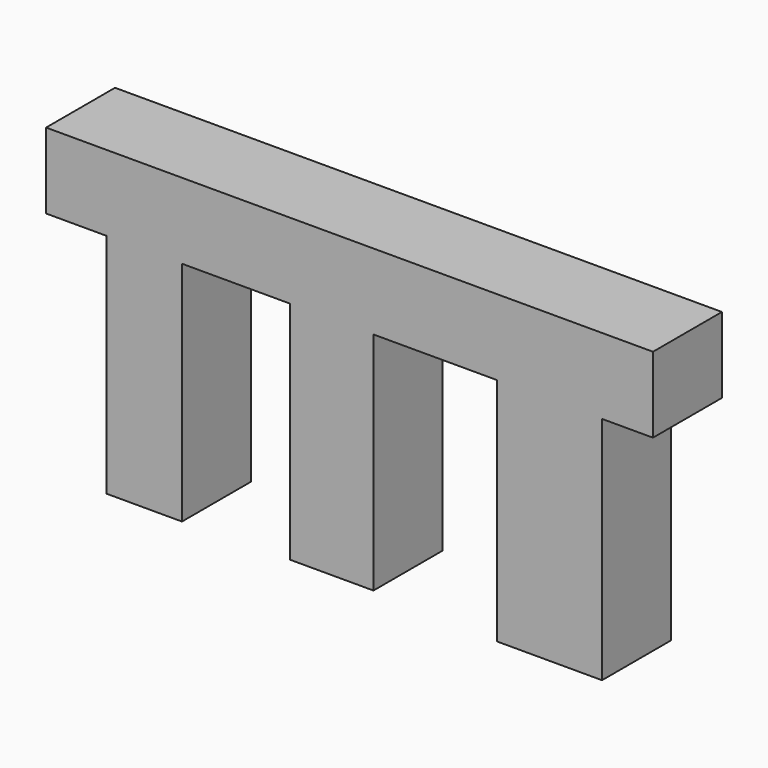
from build123d import *

# Parameters (mm, degrees)
F0_W     = 22.300236
F0_H     = 66.900707
F0_W_2   = 24.575772
F0_H_2   = 66.445604
F0_W_3   = 30.947272
F0_H_3   = 67.810923
F1_DEPTH = 25.4


with BuildPart() as f1:
    # F0 (on Front) → F1 (new body)
    with BuildSketch(Plane.XZ):
        Polygon((74.409977, -11.150122), (89.428492, -11.150122), (89.428492, 11.150122), (-89.428492, 11.150122), (-89.428492, -11.150122), (-71.679331, -11.150122), (-49.379095, -11.150122), (-17.521616, -11.150122), (7.054156, -11.150122), (43.462705, -11.150122), align=None)
        with Locations((-60.529213, -44.600475)):
            Rectangle(F0_W, F0_H)
        with Locations((-5.23373, -44.372924)):
            Rectangle(F0_W_2, F0_H_2)
        with Locations((58.936341, -45.055583)):
            Rectangle(F0_W_3, F0_H_3)
    extrude(amount=F1_DEPTH)


solid = f1.part
